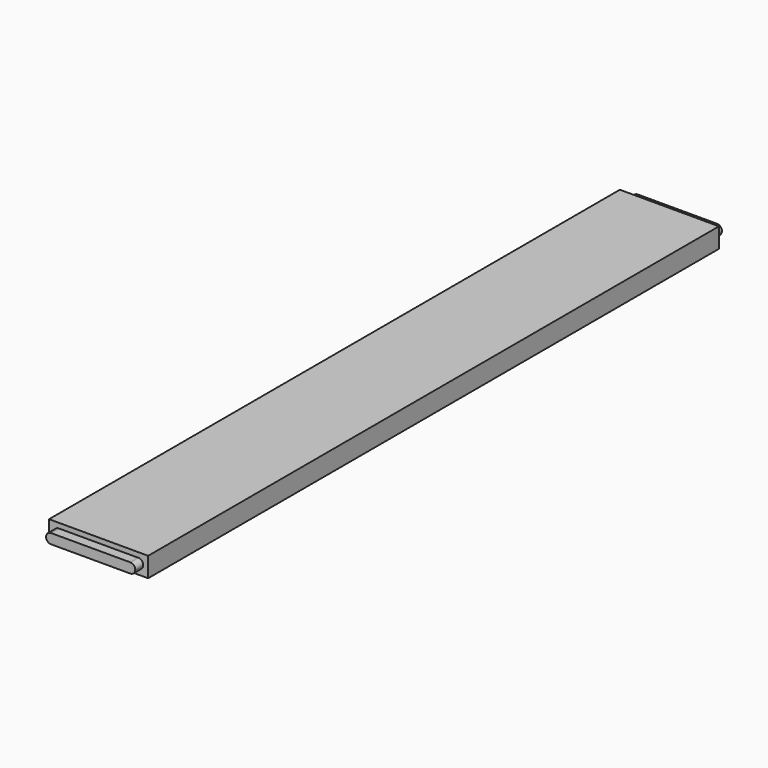
from build123d import *

# Parameters (mm, degrees)
F0_W     = 100
F0_H     = 20
F1_DEPTH = 720
F2_DEPTH = 10
F3_DEPTH = 730


with BuildPart() as f1:
    # F0 (on Front) → F1 (new body)
    with BuildSketch(Plane.XZ):
        Rectangle(F0_W, F0_H)
        with BuildLine():
            Line((-40, 5), (40, 5))
            ThreePointArc((40, 5), (43.535534, 3.535534), (45, 0))
            ThreePointArc((45, 0), (43.535534, -3.535534), (40, -5))
            Line((40, -5), (-40, -5))
            ThreePointArc((-40, -5), (-43.535534, -3.535534), (-45, 0))
            ThreePointArc((-45, 0), (-43.535534, 3.535534), (-40, 5))
        make_face(mode=Mode.SUBTRACT)
        with BuildLine():
            ThreePointArc((45, 0), (43.535534, 3.535534), (40, 5))
            Line((40, 5), (-40, 5))
            ThreePointArc((-40, 5), (-43.535534, 3.535534), (-45, 0))
            ThreePointArc((-45, 0), (-43.535534, -3.535534), (-40, -5))
            Line((-40, -5), (40, -5))
            ThreePointArc((40, -5), (43.535534, -3.535534), (45, 0))
        make_face()
    extrude(amount=F1_DEPTH)

    # F0 (on Front) → F2 (join)
    with BuildSketch(Plane.XZ):
        with BuildLine():
            ThreePointArc((45, 0), (43.535534, 3.535534), (40, 5))
            Line((40, 5), (-40, 5))
            ThreePointArc((-40, 5), (-43.535534, 3.535534), (-45, 0))
            ThreePointArc((-45, 0), (-43.535534, -3.535534), (-40, -5))
            Line((-40, -5), (40, -5))
            ThreePointArc((40, -5), (43.535534, -3.535534), (45, 0))
        make_face()
    extrude(amount=-F2_DEPTH)

    # F0 (on Front) → F3 (join)
    with BuildSketch(Plane.XZ):
        with BuildLine():
            ThreePointArc((45, 0), (43.535534, 3.535534), (40, 5))
            Line((40, 5), (-40, 5))
            ThreePointArc((-40, 5), (-43.535534, 3.535534), (-45, 0))
            ThreePointArc((-45, 0), (-43.535534, -3.535534), (-40, -5))
            Line((-40, -5), (40, -5))
            ThreePointArc((40, -5), (43.535534, -3.535534), (45, 0))
        make_face()
    extrude(amount=F3_DEPTH)


solid = f1.part
